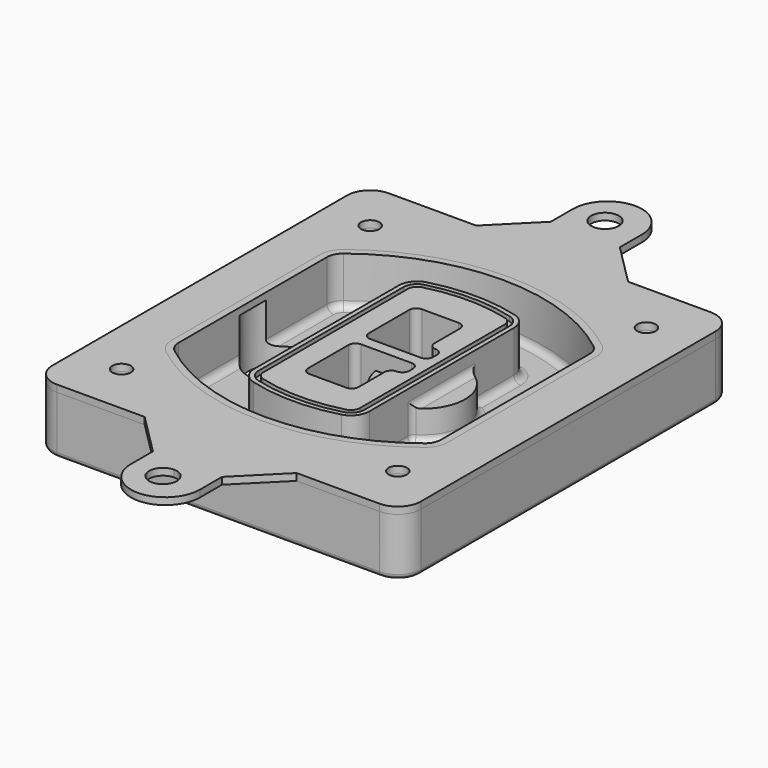
from build123d import *

# Parameters (mm, degrees)
F0_R      = 4
F1_DEPTH  = 25
F2_DEPTH  = 3
F3_DEPTH  = 18
F5_DEPTH  = 21
F6_DEPTH  = 2
F8_DEPTH  = 20
F9_DEPTH  = 16
F10_DEPTH = 25
F7_R      = 6
F7_R_2    = 4
F11_DEPTH = 6
F13_DEPTH = 9
F14_R     = 3
F15_R     = 2
F16_R     = 4
F17_DEPTH = 3


with BuildPart() as f1:
    # F0 (on Top) → F1 (new body)
    with BuildSketch(Plane.XY):
        with BuildLine():
            ThreePointArc((-80, -80), (-77.0710678119, -87.0710678119), (-70, -90))
            Line((-70, -90), (70, -90))
            ThreePointArc((70, -90), (77.0710678119, -87.0710678119), (80, -80))
            Line((80, -80), (80, 80))
            ThreePointArc((80, 80), (77.0710678119, 87.0710678119), (70, 90))
            Line((70, 90), (-70, 90))
            ThreePointArc((-70, 90), (-77.0710678119, 87.0710678119), (-80, 80))
            Line((-80, 80), (-80, -80))
        make_face()
        with Locations((-60, -67.5)):
            Circle(F0_R, mode=Mode.SUBTRACT)
        with Locations((60, -67.5)):
            Circle(F0_R, mode=Mode.SUBTRACT)
        with Locations((-60, 67.5)):
            Circle(F0_R, mode=Mode.SUBTRACT)
        with BuildLine():
            ThreePointArc((-64, 40.2934422872), (-62.5820384798, 46.4328484224), (-58.6153846154, 51.3286200352))
            ThreePointArc((-58.6153846154, 51.3286200352), (0, 71.5), (58.6153846154, 51.3286200352))
            ThreePointArc((58.6153846154, 51.3286200352), (62.5820384798, 46.4328484224), (64, 40.2934422872))
            Line((64, 40.2934422872), (64, -40.2934422872))
            ThreePointArc((64, -40.2934422872), (62.5820384798, -46.4328484224), (58.6153846154, -51.3286200352))
            ThreePointArc((58.6153846154, -51.3286200352), (0, -71.5), (-58.6153846154, -51.3286200352))
            ThreePointArc((-58.6153846154, -51.3286200352), (-62.5820384798, -46.4328484224), (-64, -40.2934422872))
            Line((-64, -40.2934422872), (-64, 40.2934422872))
        make_face(mode=Mode.SUBTRACT)
        with Locations((60, 67.5)):
            Circle(F0_R, mode=Mode.SUBTRACT)
        with BuildLine():
            ThreePointArc((58.6153846154, 51.3286200352), (0, 71.5), (-58.6153846154, 51.3286200352))
            ThreePointArc((-58.6153846154, 51.3286200352), (-62.5820384798, 46.4328484224), (-64, 40.2934422872))
            Line((-64, 40.2934422872), (-64, -40.2934422872))
            ThreePointArc((-64, -40.2934422872), (-62.5820384798, -46.4328484224), (-58.6153846154, -51.3286200352))
            ThreePointArc((-58.6153846154, -51.3286200352), (0, -71.5), (58.6153846154, -51.3286200352))
            ThreePointArc((58.6153846154, -51.3286200352), (62.5820384798, -46.4328484224), (64, -40.2934422872))
            Line((64, -40.2934422872), (64, 40.2934422872))
            ThreePointArc((64, 40.2934422872), (62.5820384798, 46.4328484224), (58.6153846154, 51.3286200352))
        make_face()
        with BuildLine():
            Line((-60, -40.2934422872), (-60, 40.2934422872))
            ThreePointArc((-60, 40.2934422872), (-58.9871703427, 44.6787323838), (-56.1538461538, 48.1757121072))
            ThreePointArc((-56.1538461538, 48.1757121072), (0, 67.5), (56.1538461538, 48.1757121072))
            ThreePointArc((56.1538461538, 48.1757121072), (58.9871703427, 44.6787323838), (60, 40.2934422872))
            Line((60, 40.2934422872), (60, -40.2934422872))
            ThreePointArc((60, -40.2934422872), (58.9871703427, -44.6787323838), (56.1538461538, -48.1757121072))
            ThreePointArc((56.1538461538, -48.1757121072), (0, -67.5), (-56.1538461538, -48.1757121072))
            ThreePointArc((-56.1538461538, -48.1757121072), (-58.9871703427, -44.6787323838), (-60, -40.2934422872))
        make_face(mode=Mode.SUBTRACT)
        with BuildLine():
            ThreePointArc((-56.1538461538, 48.1757121072), (-58.9871703427, 44.6787323838), (-60, 40.2934422872))
            Line((-60, 40.2934422872), (-60, -40.2934422872))
            ThreePointArc((-60, -40.2934422872), (-58.9871703427, -44.6787323838), (-56.1538461538, -48.1757121072))
            ThreePointArc((-56.1538461538, -48.1757121072), (0, -67.5), (56.1538461538, -48.1757121072))
            ThreePointArc((56.1538461538, -48.1757121072), (58.9871703427, -44.6787323838), (60, -40.2934422872))
            Line((60, -40.2934422872), (60, 40.2934422872))
            ThreePointArc((60, 40.2934422872), (58.9871703427, 44.6787323838), (56.1538461538, 48.1757121072))
            ThreePointArc((56.1538461538, 48.1757121072), (0, 67.5), (-56.1538461538, 48.1757121072))
        make_face()
        with BuildLine():
            ThreePointArc((54.3076923077, 45.8110311612), (56.2910192399, 43.3631453548), (57, 40.2934422872))
            Line((57, 40.2934422872), (57, -40.2934422872))
            ThreePointArc((57, -40.2934422872), (56.2910192399, -43.3631453548), (54.3076923077, -45.8110311612))
            ThreePointArc((54.3076923077, -45.8110311612), (0, -64.5), (-54.3076923077, -45.8110311612))
            ThreePointArc((-54.3076923077, -45.8110311612), (-56.2910192399, -43.3631453548), (-57, -40.2934422872))
            Line((-57, -40.2934422872), (-57, 40.2934422872))
            ThreePointArc((-57, 40.2934422872), (-56.2910192399, 43.3631453548), (-54.3076923077, 45.8110311612))
            ThreePointArc((-54.3076923077, 45.8110311612), (0, 64.5), (54.3076923077, 45.8110311612))
        make_face(mode=Mode.SUBTRACT)
        with BuildLine():
            Line((57, -40.2934422872), (57, 40.2934422872))
            ThreePointArc((57, 40.2934422872), (56.2910192399, 43.3631453548), (54.3076923077, 45.8110311612))
            ThreePointArc((54.3076923077, 45.8110311612), (0, 64.5), (-54.3076923077, 45.8110311612))
            ThreePointArc((-54.3076923077, 45.8110311612), (-56.2910192399, 43.3631453548), (-57, 40.2934422872))
            Line((-57, 40.2934422872), (-57, -40.2934422872))
            ThreePointArc((-57, -40.2934422872), (-56.2910192399, -43.3631453548), (-54.3076923077, -45.8110311612))
            ThreePointArc((-54.3076923077, -45.8110311612), (0, -64.5), (54.3076923077, -45.8110311612))
            ThreePointArc((54.3076923077, -45.8110311612), (56.2910192399, -43.3631453548), (57, -40.2934422872))
        make_face()
    extrude(amount=-F1_DEPTH)

    # F0 (on Top) → F2 (join)
    with BuildSketch(Plane.XY):
        with BuildLine():
            ThreePointArc((-56.1538461538, 48.1757121072), (-58.9871703427, 44.6787323838), (-60, 40.2934422872))
            Line((-60, 40.2934422872), (-60, -40.2934422872))
            ThreePointArc((-60, -40.2934422872), (-58.9871703427, -44.6787323838), (-56.1538461538, -48.1757121072))
            ThreePointArc((-56.1538461538, -48.1757121072), (0, -67.5), (56.1538461538, -48.1757121072))
            ThreePointArc((56.1538461538, -48.1757121072), (58.9871703427, -44.6787323838), (60, -40.2934422872))
            Line((60, -40.2934422872), (60, 40.2934422872))
            ThreePointArc((60, 40.2934422872), (58.9871703427, 44.6787323838), (56.1538461538, 48.1757121072))
            ThreePointArc((56.1538461538, 48.1757121072), (0, 67.5), (-56.1538461538, 48.1757121072))
        make_face()
        with BuildLine():
            ThreePointArc((54.3076923077, 45.8110311612), (56.2910192399, 43.3631453548), (57, 40.2934422872))
            Line((57, 40.2934422872), (57, -40.2934422872))
            ThreePointArc((57, -40.2934422872), (56.2910192399, -43.3631453548), (54.3076923077, -45.8110311612))
            ThreePointArc((54.3076923077, -45.8110311612), (0, -64.5), (-54.3076923077, -45.8110311612))
            ThreePointArc((-54.3076923077, -45.8110311612), (-56.2910192399, -43.3631453548), (-57, -40.2934422872))
            Line((-57, -40.2934422872), (-57, 40.2934422872))
            ThreePointArc((-57, 40.2934422872), (-56.2910192399, 43.3631453548), (-54.3076923077, 45.8110311612))
            ThreePointArc((-54.3076923077, 45.8110311612), (0, 64.5), (54.3076923077, 45.8110311612))
        make_face(mode=Mode.SUBTRACT)
    extrude(amount=F2_DEPTH)

    # F0 (on Top) → F3 (cut)
    with BuildSketch(Plane.XY):
        with BuildLine():
            Line((57, -40.2934422872), (57, 40.2934422872))
            ThreePointArc((57, 40.2934422872), (56.2910192399, 43.3631453548), (54.3076923077, 45.8110311612))
            ThreePointArc((54.3076923077, 45.8110311612), (0, 64.5), (-54.3076923077, 45.8110311612))
            ThreePointArc((-54.3076923077, 45.8110311612), (-56.2910192399, 43.3631453548), (-57, 40.2934422872))
            Line((-57, 40.2934422872), (-57, -40.2934422872))
            ThreePointArc((-57, -40.2934422872), (-56.2910192399, -43.3631453548), (-54.3076923077, -45.8110311612))
            ThreePointArc((-54.3076923077, -45.8110311612), (0, -64.5), (54.3076923077, -45.8110311612))
            ThreePointArc((54.3076923077, -45.8110311612), (56.2910192399, -43.3631453548), (57, -40.2934422872))
        make_face()
    extrude(amount=-F3_DEPTH, mode=Mode.SUBTRACT)

    # F4 (on face) → F5 (join, through all)
    with BuildSketch(Plane.XY.offset(3)):
        with BuildLine():
            ThreePointArc((-25, -39.2465276821), (-23.3511545998, -44.1109737193), (-19.0842911877, -46.9702398883))
            ThreePointArc((-19.0842911877, -46.9702398883), (0, -49.5), (19.0842911877, -46.9702398883))
            ThreePointArc((19.0842911877, -46.9702398883), (23.3511545998, -44.1109737193), (25, -39.2465276821))
            Line((25, -39.2465276821), (25, 39.2465276821))
            ThreePointArc((25, 39.2465276821), (23.3511545998, 44.1109737193), (19.0842911877, 46.9702398883))
            ThreePointArc((19.0842911877, 46.9702398883), (0, 49.5), (-19.0842911877, 46.9702398883))
            ThreePointArc((-19.0842911877, 46.9702398883), (-23.3511545998, 44.1109737193), (-25, 39.2465276821))
            Line((-25, 39.2465276821), (-25, -39.2465276821))
        make_face()
        with BuildLine():
            ThreePointArc((18.5632183908, 45.0393118368), (21.7633659499, 42.89486221), (23, 39.2465276821))
            Line((23, 39.2465276821), (23, -39.2465276821))
            ThreePointArc((23, -39.2465276821), (21.7633659499, -42.89486221), (18.5632183908, -45.0393118368))
            ThreePointArc((18.5632183908, -45.0393118368), (0, -47.5), (-18.5632183908, -45.0393118368))
            ThreePointArc((-18.5632183908, -45.0393118368), (-21.7633659499, -42.89486221), (-23, -39.2465276821))
            Line((-23, -39.2465276821), (-23, 39.2465276821))
            ThreePointArc((-23, 39.2465276821), (-21.7633659499, 42.89486221), (-18.5632183908, 45.0393118368))
            ThreePointArc((-18.5632183908, 45.0393118368), (0, 47.5), (18.5632183908, 45.0393118368))
        make_face(mode=Mode.SUBTRACT)
        with BuildLine():
            Line((23, -39.2465276821), (23, 39.2465276821))
            ThreePointArc((23, 39.2465276821), (21.7633659499, 42.89486221), (18.5632183908, 45.0393118368))
            ThreePointArc((18.5632183908, 45.0393118368), (0, 47.5), (-18.5632183908, 45.0393118368))
            ThreePointArc((-18.5632183908, 45.0393118368), (-21.7633659499, 42.89486221), (-23, 39.2465276821))
            Line((-23, 39.2465276821), (-23, -39.2465276821))
            ThreePointArc((-23, -39.2465276821), (-21.7633659499, -42.89486221), (-18.5632183908, -45.0393118368))
            ThreePointArc((-18.5632183908, -45.0393118368), (0, -47.5), (18.5632183908, -45.0393118368))
            ThreePointArc((18.5632183908, -45.0393118368), (21.7633659499, -42.89486221), (23, -39.2465276821))
        make_face()
        with BuildLine():
            ThreePointArc((18.0421455939, 43.1083837852), (20.1755772999, 41.6787507007), (21, 39.2465276821))
            Line((21, 39.2465276821), (21, -39.2465276821))
            ThreePointArc((21, -39.2465276821), (20.1755772999, -41.6787507007), (18.0421455939, -43.1083837852))
            ThreePointArc((18.0421455939, -43.1083837852), (0, -45.5), (-18.0421455939, -43.1083837852))
            ThreePointArc((-18.0421455939, -43.1083837852), (-20.1755772999, -41.6787507007), (-21, -39.2465276821))
            Line((-21, -39.2465276821), (-21, 39.2465276821))
            ThreePointArc((-21, 39.2465276821), (-20.1755772999, 41.6787507007), (-18.0421455939, 43.1083837852))
            ThreePointArc((-18.0421455939, 43.1083837852), (0, 45.5), (18.0421455939, 43.1083837852))
        make_face(mode=Mode.SUBTRACT)
        with BuildLine():
            Line((21, -39.2465276821), (21, 39.2465276821))
            ThreePointArc((21, 39.2465276821), (20.1755772999, 41.6787507007), (18.0421455939, 43.1083837852))
            ThreePointArc((18.0421455939, 43.1083837852), (0, 45.5), (-18.0421455939, 43.1083837852))
            ThreePointArc((-18.0421455939, 43.1083837852), (-20.1755772999, 41.6787507007), (-21, 39.2465276821))
            Line((-21, 39.2465276821), (-21, -39.2465276821))
            ThreePointArc((-21, -39.2465276821), (-20.1755772999, -41.6787507007), (-18.0421455939, -43.1083837852))
            ThreePointArc((-18.0421455939, -43.1083837852), (0, -45.5), (18.0421455939, -43.1083837852))
            ThreePointArc((18.0421455939, -43.1083837852), (20.1755772999, -41.6787507007), (21, -39.2465276821))
        make_face()
        with BuildLine():
            Line((-8, -2.5), (14, -2.5))
            ThreePointArc((14, -2.5), (16.1213203436, -3.3786796564), (17, -5.5))
            Line((17, -5.5), (17, -7.5))
            ThreePointArc((17, -7.5), (16.1213203436, -9.6213203436), (14, -10.5))
            ThreePointArc((14, -10.5), (11.8786796564, -11.3786796564), (11, -13.5))
            Line((11, -13.5), (11, -27.5))
            ThreePointArc((11, -27.5), (10.1213203436, -29.6213203436), (8, -30.5))
            Line((8, -30.5), (-8, -30.5))
            ThreePointArc((-8, -30.5), (-10.1213203436, -29.6213203436), (-11, -27.5))
            Line((-11, -27.5), (-11, -5.5))
            ThreePointArc((-11, -5.5), (-10.1213203436, -3.3786796564), (-8, -2.5))
        make_face(mode=Mode.SUBTRACT)
        with BuildLine():
            ThreePointArc((-8, 2.5), (-10.1213203436, 3.3786796564), (-11, 5.5))
            Line((-11, 5.5), (-11, 27.5))
            ThreePointArc((-11, 27.5), (-10.1213203436, 29.6213203436), (-8, 30.5))
            Line((-8, 30.5), (8, 30.5))
            ThreePointArc((8, 30.5), (10.1213203436, 29.6213203436), (11, 27.5))
            Line((11, 27.5), (11, 13.5))
            ThreePointArc((11, 13.5), (11.8786796564, 11.3786796564), (14, 10.5))
            ThreePointArc((14, 10.5), (16.1213203436, 9.6213203436), (17, 7.5))
            Line((17, 7.5), (17, 5.5))
            ThreePointArc((17, 5.5), (16.1213203436, 3.3786796564), (14, 2.5))
            Line((14, 2.5), (-8, 2.5))
        make_face(mode=Mode.SUBTRACT)
    extrude(amount=-F5_DEPTH)

    # F4 (on face) → F6 (cut)
    with BuildSketch(Plane.XY.offset(3)):
        with BuildLine():
            Line((23, -39.2465276821), (23, 39.2465276821))
            ThreePointArc((23, 39.2465276821), (21.7633659499, 42.89486221), (18.5632183908, 45.0393118368))
            ThreePointArc((18.5632183908, 45.0393118368), (0, 47.5), (-18.5632183908, 45.0393118368))
            ThreePointArc((-18.5632183908, 45.0393118368), (-21.7633659499, 42.89486221), (-23, 39.2465276821))
            Line((-23, 39.2465276821), (-23, -39.2465276821))
            ThreePointArc((-23, -39.2465276821), (-21.7633659499, -42.89486221), (-18.5632183908, -45.0393118368))
            ThreePointArc((-18.5632183908, -45.0393118368), (0, -47.5), (18.5632183908, -45.0393118368))
            ThreePointArc((18.5632183908, -45.0393118368), (21.7633659499, -42.89486221), (23, -39.2465276821))
        make_face()
        with BuildLine():
            ThreePointArc((18.0421455939, 43.1083837852), (20.1755772999, 41.6787507007), (21, 39.2465276821))
            Line((21, 39.2465276821), (21, -39.2465276821))
            ThreePointArc((21, -39.2465276821), (20.1755772999, -41.6787507007), (18.0421455939, -43.1083837852))
            ThreePointArc((18.0421455939, -43.1083837852), (0, -45.5), (-18.0421455939, -43.1083837852))
            ThreePointArc((-18.0421455939, -43.1083837852), (-20.1755772999, -41.6787507007), (-21, -39.2465276821))
            Line((-21, -39.2465276821), (-21, 39.2465276821))
            ThreePointArc((-21, 39.2465276821), (-20.1755772999, 41.6787507007), (-18.0421455939, 43.1083837852))
            ThreePointArc((-18.0421455939, 43.1083837852), (0, 45.5), (18.0421455939, 43.1083837852))
        make_face(mode=Mode.SUBTRACT)
    extrude(amount=-F6_DEPTH, mode=Mode.SUBTRACT)

    # F7 (on face) → F8 (join)
    with BuildSketch(Plane(origin=(0, 0, -25), x_dir=(1, 0, 0), z_dir=(0, 0, -1))):
        with BuildLine():
            ThreePointArc((3.28842436, 0), (16.7567035675, 13.4682792075), (30.224982775, 0))
            Line((30.224982775, 0), (35.224982775, 0))
            ThreePointArc((35.224982775, 0), (16.7567035675, 18.4682792075), (-1.71157564, 0))
            Line((-1.71157564, 0), (3.28842436, 0))
        make_face()
        with BuildLine():
            Line((3.28842436, 0), (30.224982775, 0))
            ThreePointArc((30.224982775, 0), (16.7567035675, 13.4682792075), (3.28842436, 0))
        make_face()
        with BuildLine():
            ThreePointArc((3.28842436, 0), (16.7567035675, -13.4682792075), (30.224982775, 0))
            Line((30.224982775, 0), (3.28842436, 0))
        make_face()
        with BuildLine():
            Line((35.224982775, 0), (30.224982775, 0))
            ThreePointArc((30.224982775, 0), (16.7567035675, -13.4682792075), (3.28842436, 0))
            Line((3.28842436, 0), (-1.71157564, 0))
            ThreePointArc((-1.71157564, 0), (16.7567035675, -18.4682792075), (35.224982775, 0))
        make_face()
    extrude(amount=-F8_DEPTH)

    # F7 (on face) → F9 (cut)
    with BuildSketch(Plane(origin=(0, 0, -25), x_dir=(1, 0, 0), z_dir=(0, 0, -1))):
        with BuildLine():
            Line((3.28842436, 0), (30.224982775, 0))
            ThreePointArc((30.224982775, 0), (16.7567035675, 13.4682792075), (3.28842436, 0))
        make_face()
        with BuildLine():
            ThreePointArc((3.28842436, 0), (16.7567035675, -13.4682792075), (30.224982775, 0))
            Line((30.224982775, 0), (3.28842436, 0))
        make_face()
    extrude(amount=-F9_DEPTH, mode=Mode.SUBTRACT)

    # F7 (on face) → F10 (cut)
    with BuildSketch(Plane(origin=(0, 0, -25), x_dir=(1, 0, 0), z_dir=(0, 0, -1))):
        with BuildLine():
            Line((-59.0318229325, 0), (-32.0952645175, 0))
            ThreePointArc((-32.0952645175, 0), (-45.563543725, 13.4682792075), (-59.0318229325, 0))
        make_face()
        with BuildLine():
            ThreePointArc((-59.0318229325, 0), (-45.563543725, -13.4682792075), (-32.0952645175, 0))
            Line((-32.0952645175, 0), (-59.0318229325, 0))
        make_face()
    extrude(amount=-F10_DEPTH, mode=Mode.SUBTRACT)

    # F7 (on face) → F11 (cut)
    with BuildSketch(Plane(origin=(0, 0, -25), x_dir=(1, 0, 0), z_dir=(0, 0, -1))):
        with Locations((60, -67.5)):
            Circle(F7_R)
        with Locations((60, -67.5)):
            Circle(F7_R_2, mode=Mode.SUBTRACT)
        with Locations((60, -67.5)):
            Circle(F7_R)
        with Locations((60, -67.5)):
            Circle(F7_R_2, mode=Mode.SUBTRACT)
        with Locations((-60, -67.5)):
            Circle(F7_R)
        with Locations((-60, -67.5)):
            Circle(F7_R_2, mode=Mode.SUBTRACT)
        with Locations((-60, -67.5)):
            Circle(F7_R)
        with Locations((-60, -67.5)):
            Circle(F7_R_2, mode=Mode.SUBTRACT)
        with Locations((-60, 67.5)):
            Circle(F7_R)
        with Locations((-60, 67.5)):
            Circle(F7_R_2, mode=Mode.SUBTRACT)
        with Locations((-60, 67.5)):
            Circle(F7_R)
        with Locations((-60, 67.5)):
            Circle(F7_R_2, mode=Mode.SUBTRACT)
        with Locations((60, 67.5)):
            Circle(F7_R)
        with Locations((60, 67.5)):
            Circle(F7_R_2, mode=Mode.SUBTRACT)
        with Locations((60, 67.5)):
            Circle(F7_R)
        with Locations((60, 67.5)):
            Circle(F7_R_2, mode=Mode.SUBTRACT)
    extrude(amount=-F11_DEPTH, mode=Mode.SUBTRACT)

    # F12 (on face) → F13 (cut, through all)
    with BuildSketch(Plane(origin=(0, 0, -9), x_dir=(1, 0, 0), z_dir=(0, 0, -1))):
        with BuildLine():
            Line((11, 13.5), (11, 17.5481537753))
            ThreePointArc((11, 17.5481537753), (2.5696536419, 11.8239143813), (-1.5415842455, 2.5))
            Line((-1.5415842455, 2.5), (3.5224848595, 2.5))
            ThreePointArc((3.5224848595, 2.5), (6.1857188154, 8.3455872281), (11.2536447004, 12.2927168648))
            ThreePointArc((11.2536447004, 12.2927168648), (11.0640958889, 12.8831798879), (11, 13.5))
        make_face()
        with BuildLine():
            ThreePointArc((11.2536447004, -12.2927168648), (6.1857188154, -8.3455872281), (3.5224848595, -2.5))
            Line((3.5224848595, -2.5), (-1.5415842455, -2.5))
            ThreePointArc((-1.5415842455, -2.5), (2.5696536419, -11.8239143813), (11, -17.5481537753))
            Line((11, -17.5481537753), (11, -13.5))
            ThreePointArc((11, -13.5), (11.0640958889, -12.8831798879), (11.2536447004, -12.2927168648))
        make_face()
        with BuildLine():
            ThreePointArc((11.2536447004, 12.2927168648), (6.1857188154, 8.3455872281), (3.5224848595, 2.5))
            Line((3.5224848595, 2.5), (14, 2.5))
            ThreePointArc((14, 2.5), (16.1213203436, 3.3786796564), (17, 5.5))
            Line((17, 5.5), (17, 7.5))
            ThreePointArc((17, 7.5), (16.1213203436, 9.6213203436), (14, 10.5))
            ThreePointArc((14, 10.5), (12.3601599782, 10.9878446101), (11.2536447004, 12.2927168648))
        make_face()
        with BuildLine():
            Line((14, -2.5), (3.5224848595, -2.5))
            ThreePointArc((3.5224848595, -2.5), (6.1857188154, -8.3455872281), (11.2536447004, -12.2927168648))
            ThreePointArc((11.2536447004, -12.2927168648), (12.3601599782, -10.9878446101), (14, -10.5))
            ThreePointArc((14, -10.5), (16.1213203436, -9.6213203436), (17, -7.5))
            Line((17, -7.5), (17, -5.5))
            ThreePointArc((17, -5.5), (16.1213203436, -3.3786796564), (14, -2.5))
        make_face()
    extrude(amount=F13_DEPTH, mode=Mode.SUBTRACT)

    # F14
    f14_edges = [f1.edges().sort_by_distance(p)[0] for p in [
        (-57, -23.703476, -18),
        (-57, 23.703476, -18),
        (25, 0, -5),
        (25, 16.526506, -11.5),
        (25, -16.526506, -11.5),
        (25, -27.886517, -18),
        (35.224983, 0, -18),
    ]]
    fillet(f14_edges, radius=F14_R)

    # F15
    f15_edges = [f1.edges().sort_by_distance(p)[0] for p in [
        (0, -90, -25),
    ]]
    fillet(f15_edges, radius=F15_R)


with BuildPart() as f17:
    # F16 (on face) → F17 (new body, through all)
    with BuildSketch(Plane.XY):
        with BuildLine():
            Line((-31.9562662969, 90), (-70, 90))
            ThreePointArc((-70, 90), (-77.0710678119, 87.0710678119), (-80, 80))
            Line((-80, 80), (-80, -80))
            ThreePointArc((-80, -80), (-77.0710678119, -87.0710678119), (-70, -90))
            Line((-70, -90), (-31.9562662969, -90))
            Line((-31.9562662969, -90), (0, -90))
            Line((0, -90), (34.0437337031, -90))
            Line((34.0437337031, -90), (70, -90))
            ThreePointArc((70, -90), (77.0710678119, -87.0710678119), (80, -80))
            Line((80, -80), (80, 80))
            ThreePointArc((80, 80), (77.0710678119, 87.0710678119), (70, 90))
            Line((70, 90), (34.0437337031, 90))
            Line((34.0437337031, 90), (0, 90))
            Line((0, 90), (-31.9562662969, 90))
        make_face()
        with Locations((-60, -67.5)):
            Circle(F16_R, mode=Mode.SUBTRACT)
        with Locations((60, -67.5)):
            Circle(F16_R, mode=Mode.SUBTRACT)
        with Locations((-60, 67.5)):
            Circle(F16_R, mode=Mode.SUBTRACT)
        with BuildLine():
            ThreePointArc((-56.1538461538, 48.1757121072), (0, 67.5), (56.1538461538, 48.1757121072))
            ThreePointArc((56.1538461538, 48.1757121072), (58.9871703427, 44.6787323838), (60, 40.2934422872))
            Line((60, 40.2934422872), (60, -40.2934422872))
            ThreePointArc((60, -40.2934422872), (58.9871703427, -44.6787323838), (56.1538461538, -48.1757121072))
            ThreePointArc((56.1538461538, -48.1757121072), (0, -67.5), (-56.1538461538, -48.1757121072))
            ThreePointArc((-56.1538461538, -48.1757121072), (-58.9871703427, -44.6787323838), (-60, -40.2934422872))
            Line((-60, -40.2934422872), (-60, 40.2934422872))
            ThreePointArc((-60, 40.2934422872), (-58.9871703427, 44.6787323838), (-56.1538461538, 48.1757121072))
        make_face(mode=Mode.SUBTRACT)
        with Locations((60, 67.5)):
            Circle(F16_R, mode=Mode.SUBTRACT)
        with BuildLine():
            Line((-13.9562662969, 108), (-31.9562662969, 90))
            Line((-31.9562662969, 90), (0, 90))
            Line((0, 90), (34.0437337031, 90))
            Line((34.0437337031, 90), (16.0437337031, 108))
            Line((16.0437337031, 108), (16.0437337031, 120))
            ThreePointArc((16.0437337031, 120), (1.0437337031, 135), (-13.9562662969, 120))
            Line((-13.9562662969, 120), (-13.9562662969, 108))
        make_face()
        with BuildLine():
            ThreePointArc((6, 120), (4.2426406871, 115.7573593129), (0, 114))
            ThreePointArc((0, 114), (-4.2426406871, 124.2426406871), (6, 120))
        make_face(mode=Mode.SUBTRACT)
        with BuildLine():
            Line((0, -90), (-31.9562662969, -90))
            Line((-31.9562662969, -90), (-13.9562662969, -108))
            Line((-13.9562662969, -108), (-13.9562662969, -120))
            ThreePointArc((-13.9562662969, -120), (1.0437337031, -135), (16.0437337031, -120))
            Line((16.0437337031, -120), (16.0437337031, -108))
            Line((16.0437337031, -108), (34.0437337031, -90))
            Line((34.0437337031, -90), (0, -90))
        make_face()
        with BuildLine():
            ThreePointArc((6, -120), (-4.2426406871, -124.2426406871), (0, -114))
            ThreePointArc((0, -114), (4.2426406871, -115.7573593129), (6, -120))
        make_face(mode=Mode.SUBTRACT)
    extrude(amount=F17_DEPTH)


solid = Compound([f1.part, f17.part])
